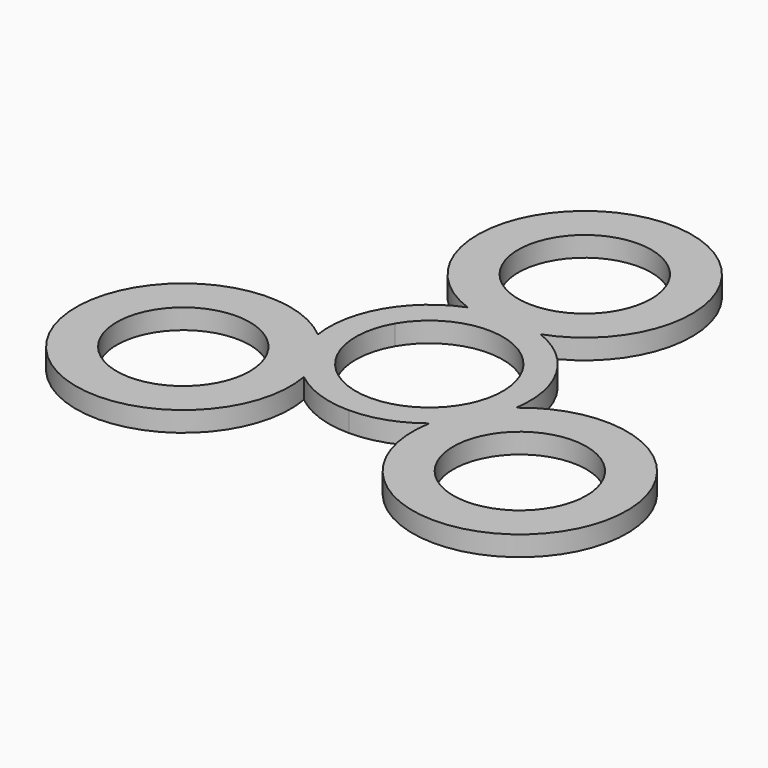
from build123d import *

# Parameters (mm, degrees)
F0_R     = 9.95
F1_DEPTH = 3


with BuildPart() as f1:
    # F0 (on Top) → F1 (new body)
    with BuildSketch(Plane.XY):
        with BuildLine():
            ThreePointArc((14.825089, -2.284017), (14.743027, 2.764626), (12.990381, 7.5))
            ThreePointArc((12.990381, 7.5), (9.76575, 11.385523), (5.434528, 13.980912))
            ThreePointArc((5.434528, 13.980912), (0, 45.080944), (-5.434528, 13.980912))
            ThreePointArc((-5.434528, 13.980912), (-9.76575, 11.385523), (-12.990381, 7.5))
            ThreePointArc((-12.990381, 7.5), (-14.743027, 2.764626), (-14.825089, -2.284017))
            ThreePointArc((-14.825089, -2.284017), (-39.041242, -22.540472), (-9.390561, -11.696895))
            ThreePointArc((-9.390561, -11.696895), (-4.977277, -14.150149), (0, -15))
            ThreePointArc((0, -15), (4.977277, -14.150149), (9.390561, -11.696895))
            ThreePointArc((9.390561, -11.696895), (39.041242, -22.540472), (14.825089, -2.284017))
        make_face()
        with Locations((-25.163324, -14.528052)):
            Circle(F0_R, mode=Mode.SUBTRACT)
        with BuildLine():
            ThreePointArc((-9.526279, 5.5), (0, 11), (9.526279, 5.5))
            ThreePointArc((9.526279, 5.5), (9.526279, -5.5), (0, -11))
            ThreePointArc((0, -11), (-9.526279, -5.5), (-9.526279, 5.5))
        make_face(mode=Mode.SUBTRACT)
        with Locations((25.163324, -14.528052)):
            Circle(F0_R, mode=Mode.SUBTRACT)
        with Locations((0, 29.056104)):
            Circle(F0_R, mode=Mode.SUBTRACT)
    extrude(amount=F1_DEPTH)


solid = f1.part
